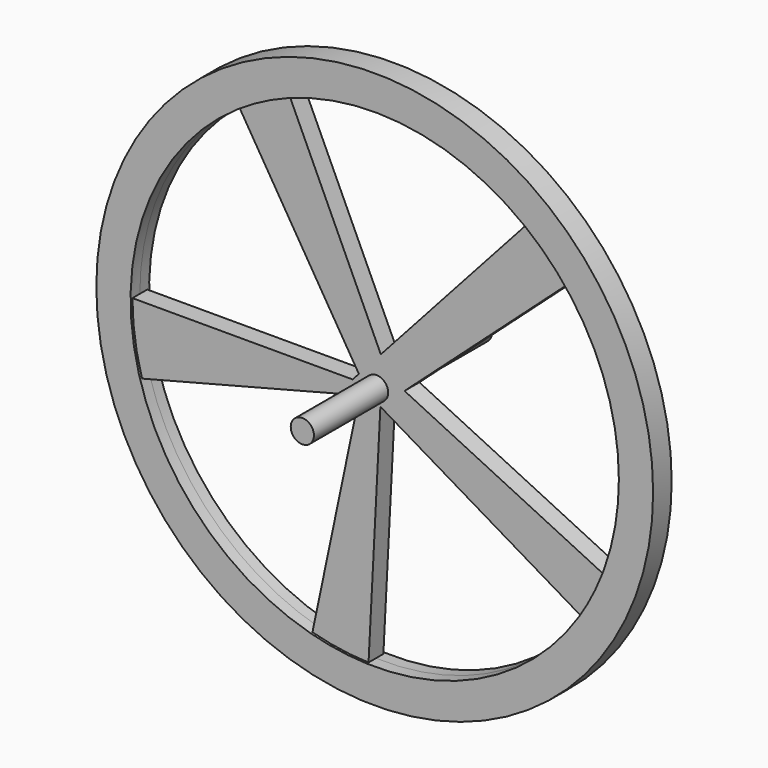
from build123d import *

# Parameters (mm, degrees)
F0_R     = 300
F1_DEPTH = 12.5
F2_DEPTH = 10
F3_R     = 12.5
F4_DEPTH = 120


with BuildPart() as f1:
    # F0 (on Front) → F1 (new body, symmetric)
    with BuildSketch(Plane.XZ):
        Circle(F0_R)
        with BuildLine():
            ThreePointArc((205.0956009639, 164.7581922724), (248.1586056274, 87.3314027639), (263.0769230769, 0))
            ThreePointArc((263.0769230769, 0), (259.1250629437, -45.4276260667), (247.3882097841, -89.4904526497))
            Line((247.3882097841, -89.4904526497), (253.5845122853, -126.7404960598))
            Line((253.5845122853, -126.7404960598), (220.0723785431, -144.1444263855))
            ThreePointArc((220.0723785431, -144.1444263855), (121.2485164836, -233.4700509833), (-8.6633171075, -262.9342396728))
            Line((-8.6633171075, -262.9342396728), (-42.1754508497, -280.3381699985))
            Line((-42.1754508497, -280.3381699985), (-69.0833910393, -253.8443470675))
            ThreePointArc((-69.0833910393, -253.8443470675), (-184.5753612112, -187.4604051243), (-252.7424342118, -73.0118442742))
            Line((-252.7424342118, -73.0118442742), (-279.6503744013, -46.5180213432))
            Line((-279.6503744013, -46.5180213432), (-263.0769230769, 0))
            ThreePointArc((-263.0769230769, 0), (-232.4046711792, 123.2782879087), (-147.5400976348, 217.8104383301))
            Line((-147.5400976348, 217.8104383301), (-130.6579854969, 251.588451719))
            Line((-130.6579854969, 251.588451719), (-93.3163262043, 245.9705891349))
            ThreePointArc((-93.3163262043, 245.9705891349), (39.138142442, 260.1493287745), (161.55763917, 207.6260982667))
            Line((161.55763917, 207.6260982667), (198.8992984626, 202.0082356825))
            Line((198.8992984626, 202.0082356825), (205.0956009639, 164.7581922724))
        make_face(mode=Mode.SUBTRACT)
        with BuildLine():
            ThreePointArc((-147.5400976348, 217.8104383301), (-121.2485164836, 233.4700509833), (-93.3163262043, 245.9705891349))
            Line((-93.3163262043, 245.9705891349), (-130.6579854969, 251.588451719))
            Line((-130.6579854969, 251.588451719), (-147.5400976348, 217.8104383301))
        make_face()
        with BuildLine():
            ThreePointArc((-252.7424342118, -73.0118442742), (-260.4804881167, -36.8698083275), (-263.0769230769, 0))
            Line((-263.0769230769, 0), (-279.6503744013, -46.5180213432))
            Line((-279.6503744013, -46.5180213432), (-252.7424342118, -73.0118442742))
        make_face()
        with BuildLine():
            Line((-42.1754508497, -280.3381699985), (-8.6633171075, -262.9342396728))
            ThreePointArc((-8.6633171075, -262.9342396728), (-39.138142442, -260.1493287745), (-69.0833910393, -253.8443470675))
            Line((-69.0833910393, -253.8443470675), (-42.1754508497, -280.3381699985))
        make_face()
        with BuildLine():
            Line((253.5845122853, -126.7404960598), (247.3882097841, -89.4904526497))
            ThreePointArc((247.3882097841, -89.4904526497), (246.0347091348, -93.1471382093), (244.6271617936, -96.7833620434))
            ThreePointArc((244.6271617936, -96.7833620434), (233.553384264, -121.0879191102), (220.0723785431, -144.1444263855))
            Line((220.0723785431, -144.1444263855), (253.5845122853, -126.7404960598))
        make_face()
        with BuildLine():
            ThreePointArc((161.55763917, 207.6260982667), (184.5753612112, 187.4604051243), (205.0956009639, 164.7581922724))
            Line((205.0956009639, 164.7581922724), (198.8992984626, 202.0082356825))
            Line((198.8992984626, 202.0082356825), (161.55763917, 207.6260982667))
        make_face()
    extrude(amount=F1_DEPTH, both=True)

    # F0 (on Front) → F2 (join, symmetric)
    with BuildSketch(Plane.XZ):
        with BuildLine():
            Line((244.6271617936, -96.7833620434), (30.1419629049, 7.3265620085))
            Line((30.1419629049, 7.3265620085), (12.8380831788, 15.7257691026))
            Line((12.8380831788, 15.7257691026), (4.5759868907, 33.6459373179))
            Line((4.5759868907, 33.6459373179), (-93.3163262043, 245.9705891349))
            ThreePointArc((-93.3163262043, 245.9705891349), (-121.2485164836, 233.4700509833), (-147.5400976348, 217.8104383301))
            Line((-147.5400976348, 217.8104383301), (-19.0782173139, 7.4303752131))
            Line((-19.0782173139, 7.4303752131), (-25.7826172389, 0))
            Line((-25.7826172389, 0), (-263.0769230769, 0))
            ThreePointArc((-263.0769230769, 0), (-260.4804881167, -36.8698083275), (-252.7424342118, -73.0118442742))
            Line((-252.7424342118, -73.0118442742), (-18.4854909648, -12.6607832838))
            Line((-18.4854909649, -12.6607832838), (-69.0833910393, -253.8443470675))
            ThreePointArc((-69.0833910393, -253.8443470675), (-39.138142442, -260.1493287745), (-8.6633171075, -262.9342396728))
            Line((-8.6633171075, -262.9342396728), (4.1106084022, -16.0976926844))
            Line((4.1106084022, -16.0976926844), (220.0723785431, -144.1444263855))
            ThreePointArc((220.0723785431, -144.1444263855), (233.553384264, -121.0879191102), (244.6271617936, -96.7833620434))
        make_face()
        with BuildLine():
            Line((30.1419629049, 7.3265620085), (205.0956009639, 164.7581922724))
            ThreePointArc((205.0956009639, 164.7581922724), (184.5753612112, 187.4604051243), (161.55763917, 207.6260982667))
            Line((161.55763917, 207.6260982667), (4.5759868907, 33.6459373179))
            Line((4.5759868907, 33.6459373179), (12.8380831788, 15.7257691026))
            Line((12.8380831788, 15.7257691026), (30.1419629049, 7.3265620085))
        make_face()
    extrude(amount=F2_DEPTH, both=True)

    # F3 (on face) → F4 (join, symmetric)
    with BuildSketch(Plane(origin=(0, 10, 0), x_dir=(-1, 0, 0), z_dir=(0, 1, 0))):
        Circle(F3_R)
    extrude(amount=F4_DEPTH, both=True)


solid = f1.part
